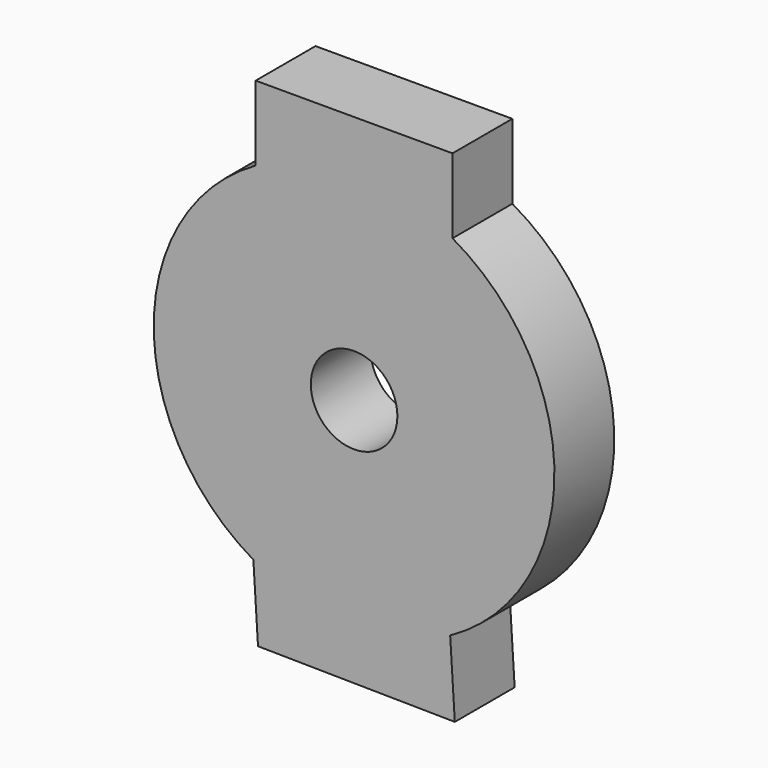
from build123d import *

# Parameters (mm, degrees)
F0_R     = 2.794
F1_DEPTH = 4.826


with BuildPart() as f1:
    # F0 (on Front) → F1 (new body)
    with BuildSketch(Plane.XZ):
        with BuildLine():
            Line((-6.199785, -15.992633), (6.499093, -16.161406))
            Line((6.499093, -16.161406), (6.199785, -11.344696))
            ThreePointArc((6.199785, -11.344696), (12.927958, -0.085905), (6.35, 11.261304))
            Line((6.35, 11.261304), (6.35, 16.087304))
            Line((6.35, 16.087304), (-6.35, 16.087304))
            Line((-6.35, 16.087304), (-6.35, 11.261304))
            ThreePointArc((-6.35, 11.261304), (-12.927958, 0.085905), (-6.499093, -11.175923))
            Line((-6.499093, -11.175923), (-6.199785, -15.992633))
        make_face()
        Circle(F0_R, mode=Mode.SUBTRACT)
    extrude(amount=F1_DEPTH)


solid = f1.part
